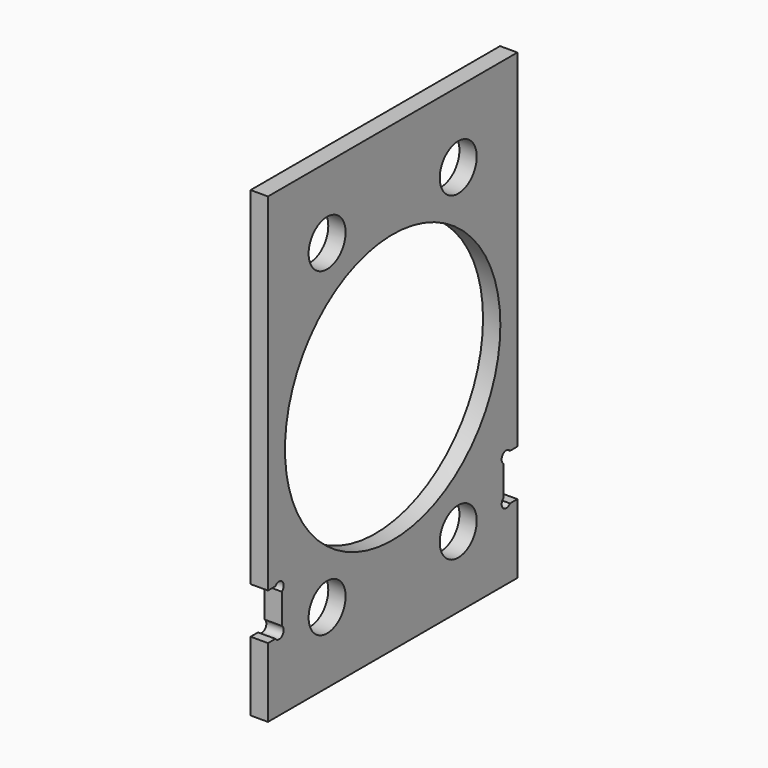
from build123d import *

# Parameters (mm, degrees)
F0_W     = 85.598
F0_H     = 127
F0_R     = 6.35
F0_R_2   = 36.957
F1_DEPTH = 4.7625
F3_DEPTH = 4.7635


with BuildPart() as f1:
    # F0 (on Right) → F1 (new body)
    with BuildSketch(Plane.YZ):
        Rectangle(F0_W, F0_H)
        with Locations((-22.5, -44)):
            Circle(F0_R, mode=Mode.SUBTRACT)
        with Locations((22.5, -44)):
            Circle(F0_R, mode=Mode.SUBTRACT)
        with Locations((-22.5, 44)):
            Circle(F0_R, mode=Mode.SUBTRACT)
        Circle(F0_R_2, mode=Mode.SUBTRACT)
        with Locations((22.5, 44)):
            Circle(F0_R, mode=Mode.SUBTRACT)
    extrude(amount=F1_DEPTH)

    # F2 (on Right) → F3 (cut, through all)
    with BuildSketch(Plane.YZ):
        with BuildLine():
            Line((-42.799, -31.75), (-42.799, -44.45))
            Line((-42.799, -44.45), (-40.256551, -44.45))
            ThreePointArc((-40.256551, -44.45), (-37.856895, -44.629605), (-38.0365, -42.229949))
            Line((-38.0365, -42.229949), (-38.0365, -33.970051))
            ThreePointArc((-38.0365, -33.970051), (-37.856895, -31.570395), (-40.256551, -31.75))
            Line((-40.256551, -31.75), (-42.799, -31.75))
        make_face()
        with BuildLine():
            Line((42.799, -44.45), (42.799, -31.75))
            Line((42.799, -31.75), (40.256551, -31.75))
            ThreePointArc((40.256551, -31.75), (37.856895, -31.570395), (38.0365, -33.970051))
            Line((38.0365, -33.970051), (38.0365, -42.229949))
            ThreePointArc((38.0365, -42.229949), (37.856895, -44.629605), (40.256551, -44.45))
            Line((40.256551, -44.45), (42.799, -44.45))
        make_face()
    extrude(amount=F3_DEPTH, mode=Mode.SUBTRACT)


solid = f1.part
